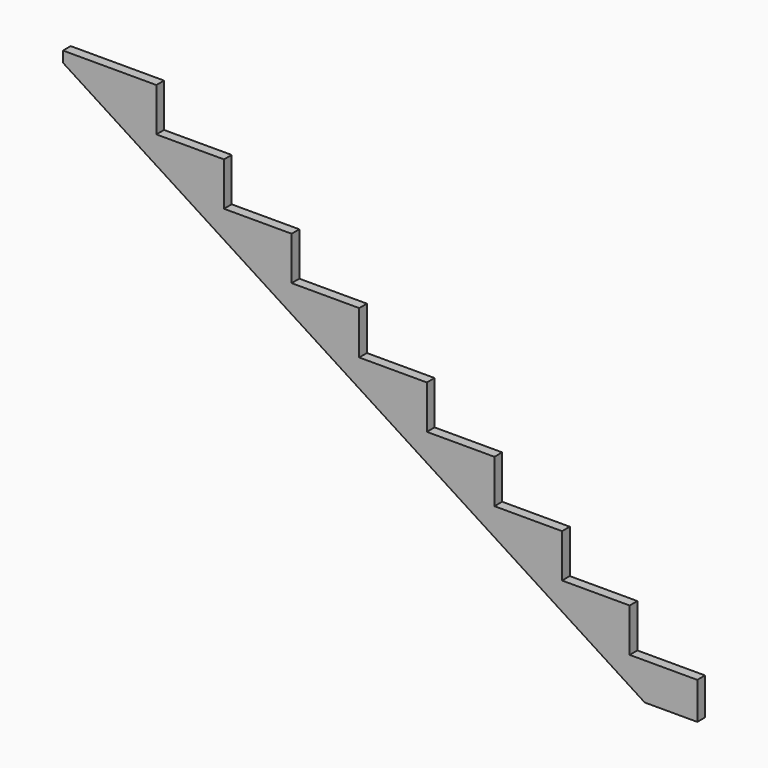
from build123d import *

# Parameters (mm, degrees)
F1_DEPTH = 19.05


with BuildPart() as f1:
    # F0 (on Front) → F1 (new body, symmetric)
    with BuildSketch(Plane.XZ):
        Polygon((368.3, 0), (0, 0), (0, -42.546237), (2294.605853, -1517.65), (2501.9, -1517.65), (2501.9, -1371.6), (2235.2, -1371.6), (2235.2, -1200.15), (1968.5, -1200.15), (1968.5, -1028.7), (1701.8, -1028.7), (1701.8, -857.25), (1435.1, -857.25), (1435.1, -685.8), (1168.4, -685.8), (1168.4, -514.35), (901.7, -514.35), (901.7, -342.9), (635, -342.9), (635, -171.45), (368.3, -171.45), align=None)
    extrude(amount=F1_DEPTH, both=True)


solid = f1.part
